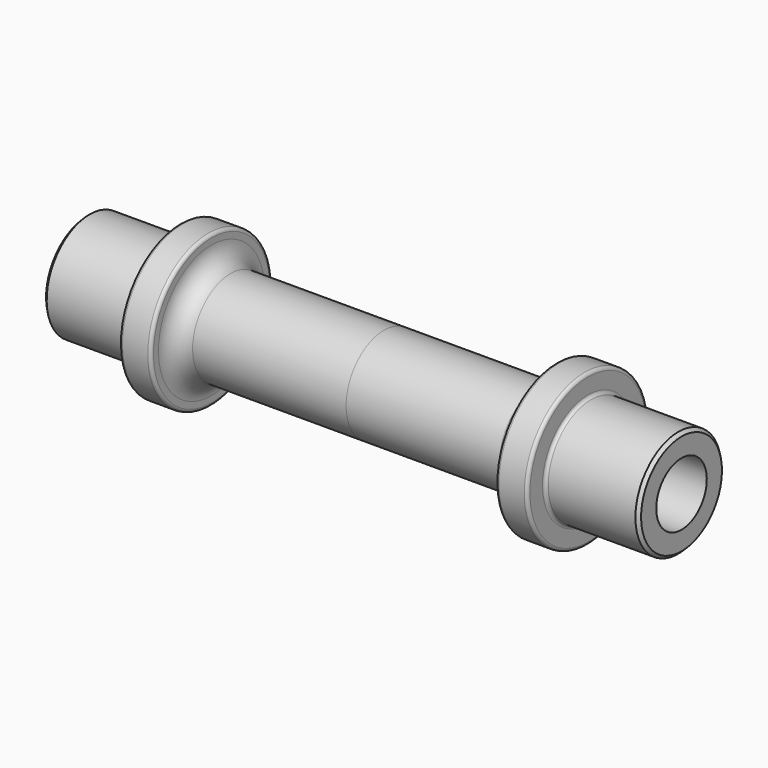
from build123d import *

# Parameters (mm, degrees)
SKETCH001_R  = 5
POCKET_DEPTH = 163.211465


with BuildPart() as part:
    # Sketch → Revolution (revolve)
    with BuildSketch(Plane.XZ):
        with BuildLine():
            Line((0, 0), (-47.1, 0))
            Line((-47.1, 0), (-47.1, 8))
            Line((-46.6, 8.5), (-47.1, 8))
            Line((-46.6, 8.5), (-32.8, 8.5))
            ThreePointArc((-32.8, 8.5), (-32.446447, 8.646447), (-32.3, 9))
            Line((-32.3, 9), (-32.3, 11.5))
            ThreePointArc((-31.8, 12), (-32.153553, 11.853553), (-32.3, 11.5))
            Line((-31.8, 12), (-27.8, 12))
            ThreePointArc((-27.3, 11.5), (-27.446447, 11.853553), (-27.8, 12))
            Line((-27.3, 11.5), (-27.3, 10.5))
            ThreePointArc((-27.3, 10.5), (-26.42132, 8.37868), (-24.3, 7.5))
            Line((-24.3, 7.5), (0, 7.5))
            Line((0, 7.5), (0, 0))
        make_face()
    revolve(axis=Axis((0, 0, 0), (1, 0, 0)))

    # Sketch001 (on Face5 of Revolution) → Pocket (cut, through all)
    with BuildSketch(Plane(origin=(-47.1, 0, 0), x_dir=(0, 0, -1), z_dir=(-1, 0, 0))):
        Circle(SKETCH001_R)
    extrude(amount=-POCKET_DEPTH, mode=Mode.SUBTRACT)

    # Mirrored: part across YZ


with BuildPart() as part_1:
    add(part.part)
    add(part.part.mirror(Plane.YZ))


solid = part_1.part
